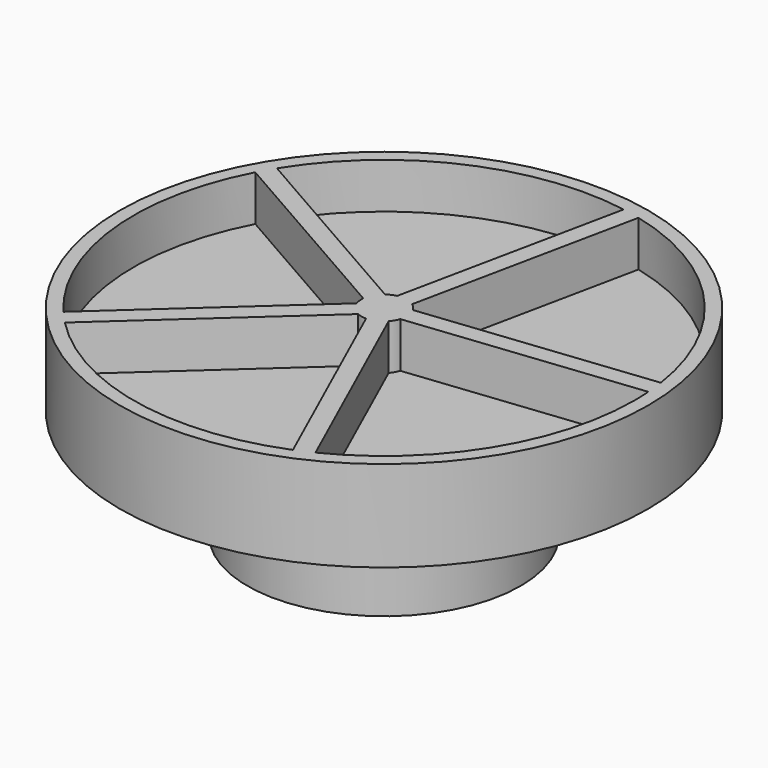
from build123d import *

# Parameters (mm, degrees)
F0_R     = 38.1
F0_R_2   = 33.02
F1_DEPTH = 25.4
F2_R     = 38.1
F3_DEPTH = 5.08
F4_R     = 73.66
F4_R_2   = 38.1
F5_DEPTH = 25.4
F7_DEPTH = 12.7
F8_R     = 2.5999948
F9_DEPTH = 22.0000068


with BuildPart() as f1:
    # F0 (on Top) → F1 (new body)
    with BuildSketch(Plane.XY):
        Circle(F0_R)
        Circle(F0_R_2, mode=Mode.SUBTRACT)
    extrude(amount=F1_DEPTH)

    # F2 (on face) → F3 (join)
    with BuildSketch(Plane.XY.offset(25.4)):
        Circle(F2_R)
    extrude(amount=F3_DEPTH)

    # F4 (on face) → F5 (join)
    with BuildSketch(Plane.XY.offset(30.48)):
        Circle(F4_R)
        Circle(F4_R_2, mode=Mode.SUBTRACT)
        Circle(F4_R_2)
    extrude(amount=F5_DEPTH)

    # F6 (on face) → F7 (cut)
    with BuildSketch(Plane.XY.offset(55.88)):
        with BuildLine():
            Line((-53.3851905178, -45.0449101829), (-6.0161168891, -2.0319541275))
            ThreePointArc((-6.0161168891, -2.0319541275), (-6.3123702779, -0.6902763759), (-6.3130838426, 0.6837195304))
            Line((-6.3130838426, 0.6837195304), (-61.8586847432, 32.4426512763))
            ThreePointArc((-61.8586847432, 32.4426512763), (-69.4360730566, -7.5930401345), (-53.3851905178, -45.0449101829))
        make_face()
        with BuildLine():
            ThreePointArc((-3.7915855726, 5.093758813), (-2.607121536, 5.7901137551), (-1.3005942796, 6.2153804807))
            Line((-1.3005942796, 6.2153804807), (11.7394100669, 68.8564358015))
            ThreePointArc((11.7394100669, 68.8564358015), (-28.6783368956, 63.6912513058), (-59.3371864733, 36.852690559))
            Line((-59.3371864733, 36.852690559), (-3.7915855726, 5.093758813))
        make_face()
        with BuildLine():
            ThreePointArc((3.672788134, 5.1800702044), (4.7010805558, 4.2687634752), (5.5092723722, 3.1575968597))
            Line((5.5092723722, 3.1575968597), (69.1140391724, 10.1129663932))
            ThreePointArc((69.1140391724, 10.1129663932), (51.7118861143, 46.9563982275), (16.7127924805, 67.8211255252))
            Line((16.7127924805, 67.8211255252), (3.672788134, 5.1800702044))
        make_face()
        with BuildLine():
            Line((69.6662602731, 5.0630701709), (6.0614934729, -1.8922993626))
            ThreePointArc((6.0614934729, -1.8922993626), (5.5125491033, -3.1518728375), (4.7055118589, -4.2638782986))
            Line((4.7055118589, -4.2638782986), (30.9754152415, -62.6062788434))
            ThreePointArc((30.9754152415, -62.6062788434), (59.3407754188, -36.8469113046), (69.85, 0))
            ThreePointArc((69.85, 0), (69.8040499544, 2.5332015239), (69.6662602731, 5.0630701709))
        make_face()
        with BuildLine():
            Line((26.3433242374, -64.6919760722), (0.0734208549, -6.3495755274))
            ThreePointArc((0.0734208549, -6.3495755274), (-1.2941378453, -6.216728017), (-2.601106109, -5.7928185722))
            Line((-2.601106109, -5.7928185722), (-49.9701797376, -48.8057746275))
            ThreePointArc((-49.9701797376, -48.8057746275), (-14.2355162987, -68.3840081869), (26.3433242374, -64.6919760722))
        make_face()
    extrude(amount=-F7_DEPTH, mode=Mode.SUBTRACT)

    # F8 (on face) → F9 (cut)
    with BuildSketch(Plane(origin=(0, 0, 25.4), x_dir=(1, 0, 0), z_dir=(0, 0, -1))):
        Circle(F8_R)
    extrude(amount=-F9_DEPTH, mode=Mode.SUBTRACT)


solid = f1.part
